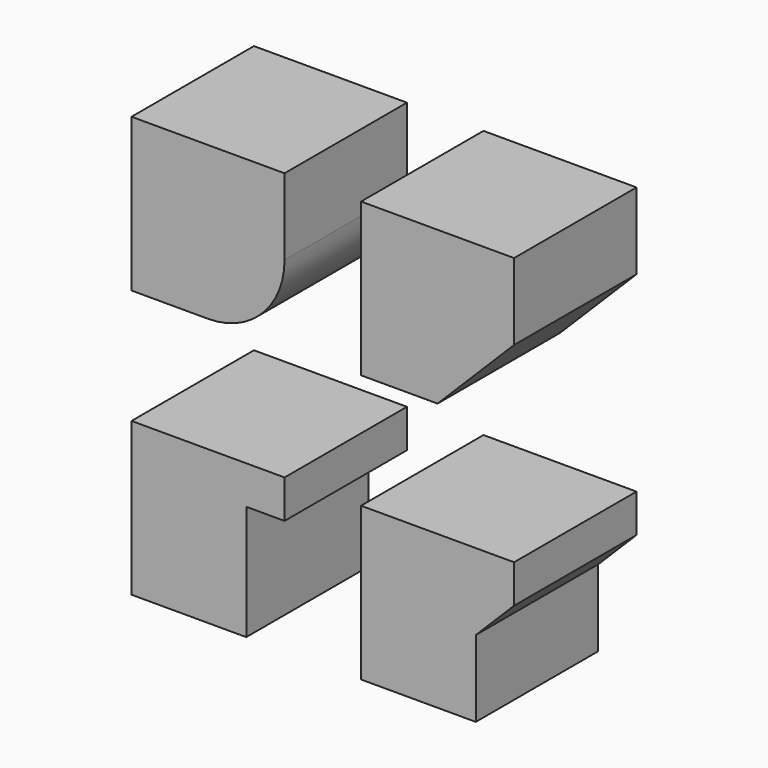
from build123d import *

# Parameters (mm, degrees)
SKETCH_W     = 100
SKETCH_H     = 100
PAD_DEPTH    = 100
FILLET_R     = 50
CHAMFER_SIZE = 50


with BuildPart() as part:
    # Sketch → Pad (new body)
    with BuildSketch(Plane.XZ):
        with Locations((50, 50)):
            Rectangle(SKETCH_W, SKETCH_H)
        with Locations((200, 50)):
            Rectangle(SKETCH_W, SKETCH_H)
        Polygon((0, -75), (0, -175), (75, -175), (75, -100), (100, -100), (100, -75), align=None)
        Polygon((150, -75), (150, -175), (225, -175), (225, -125), (250, -100), (250, -75), align=None)
    extrude(amount=PAD_DEPTH)

    # Fillet
    fillet_edges = [part.edges().sort_by_distance(p)[0] for p in [
        (100, -50, 0),
    ]]
    fillet(fillet_edges, radius=FILLET_R)

    # Chamfer
    chamfer_edges = [part.edges().sort_by_distance(p)[0] for p in [
        (250, -50, 0),
    ]]
    chamfer(chamfer_edges, length=CHAMFER_SIZE)


solid = part.part
